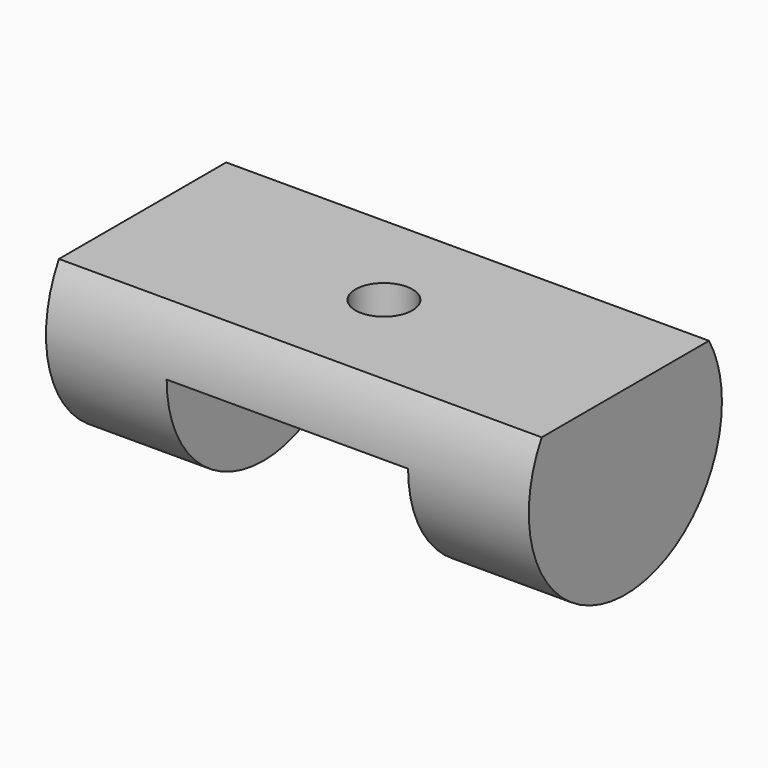
from build123d import *

# Parameters (mm, degrees)
F1_DEPTH = 25.4
F2_W     = 12.7
F2_H     = 6.604
F3_DEPTH = 25.4
F4_DEPTH = 25.4
F6_DEPTH = 25.4


with BuildPart() as f1:
    # F0 (on Right) → F1 (new body)
    with BuildSketch(Plane.YZ):
        with BuildLine():
            ThreePointArc((-5.499261314, 3.175), (-1.6435009364, -6.1336289969), (6.35, 0))
            ThreePointArc((6.35, 0), (6.1336289969, 1.6435009364), (5.499261314, 3.175))
            Line((5.499261314, 3.175), (0, 3.175))
            Line((0, 3.175), (-5.499261314, 3.175))
        make_face()
    extrude(amount=F1_DEPTH)

    # F2 (on Front) → F3 (cut)
    with BuildSketch(Plane.XZ):
        with Locations((12.7, -3.302)):
            Rectangle(F2_W, F2_H)
    extrude(amount=-F3_DEPTH, mode=Mode.SUBTRACT)

    # F4 (cut): a face of the model
    f4_faces = [f1.faces().sort_by_distance(p)[0] for p in [
        (12.7, 0, -3.175),
    ]]
    extrude(f4_faces, amount=-F4_DEPTH, mode=Mode.SUBTRACT)

    # F5 (on face) → F6 (cut)
    with BuildSketch(Plane(origin=(0, 0, 0), x_dir=(1, 0, 0), z_dir=(0, 0, -1))):
        with BuildLine():
            Line((11.2, 0), (14.2, 0))
            ThreePointArc((14.2, 0), (12.7, 1.5), (11.2, 0))
        make_face()
        with BuildLine():
            ThreePointArc((11.2, 0), (12.7, -1.5), (14.2, 0))
            Line((14.2, 0), (11.2, 0))
        make_face()
    extrude(amount=-F6_DEPTH, mode=Mode.SUBTRACT)


solid = f1.part
